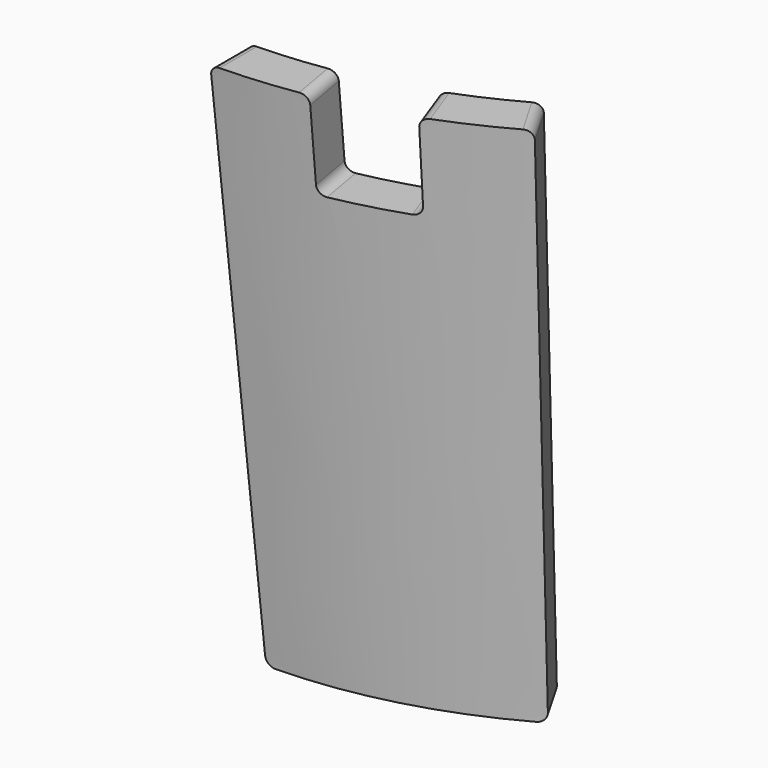
from build123d import *

# Parameters (mm, degrees)
F2_ANGLE = 30
F7_DEPTH = 12.7
F8_R     = 1.27


with BuildPart() as f2:
    # F0 (on Right) → F2 (revolve)
    with BuildSketch(Plane.YZ):
        Polygon((-63.5, 0), (0, 0), (0, 25.4), (0, 50.8), (0, 76.2), (-73.025, 76.2), (-69.85, 50.8), (-66.675, 25.4), align=None)
    revolve(axis=Axis((0, 0, 0), (0, 0, 1)), revolution_arc=F2_ANGLE)

    # F3 (on Right) → F5 (revolve, cut)
    with BuildSketch(Plane.YZ):
        Polygon((-57.15, 0), (0, 0), (0, 25.4), (0, 50.8), (0, 76.2), (-66.675, 76.2), align=None)
    revolve(axis=Axis((0, 0, 0), (0, 0, 1)), mode=Mode.SUBTRACT)

    # F6 (on face) → F7 (cut)
    with BuildSketch(Plane.XY.offset(76.2)):
        with BuildLine():
            Line((24.9760209664, -68.6210536329), (0, 0))
            Line((0, 0), (12.6806581741, -71.9155861637))
            ThreePointArc((12.6806581741, -71.9155861637), (20.6260152492, -76.9773368677), (24.9760209664, -68.6210536329))
        make_face()
    extrude(amount=-F7_DEPTH, mode=Mode.SUBTRACT)

    # F8
    f8_edges = [f2.edges().sort_by_distance(p)[0] for p in [
        (12.129325, -68.788822, 76.2),
        (23.890107, -65.63753, 76.2),
        (34.925, -60.491874, 76.2),
        (30.1625, -52.242982, 0),
        (0, -60.325, 0),
        (0, -69.85, 76.2),
        (11.853659, -67.225439, 63.5),
        (23.34715, -64.145768, 63.5),
    ]]
    fillet(f8_edges, radius=F8_R)


solid = f2.part
